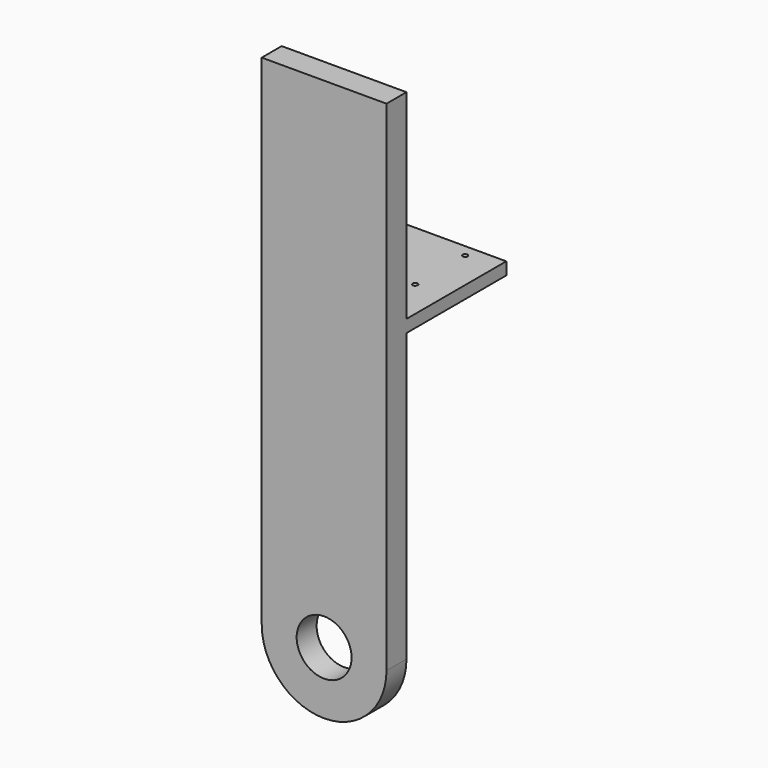
from build123d import *

# Parameters (mm, degrees)
F0_R     = 11
F0_W     = 50
F0_H     = 5
F0_H_2   = 80
F0_R_2   = 7.5
F0_R_3   = 4
F1_DEPTH = 10
F2_DEPTH = 50
F3_R     = 1
F4_DEPTH = 25
F5_DEPTH = 5
F6_DEPTH = 15


with BuildPart() as f1:
    # F0 (on Front) → F1 (new body)
    with BuildSketch(Plane.XZ):
        with BuildLine():
            Line((-25, 115), (-25, 0))
            ThreePointArc((-25, 0), (0, -25), (25, 0))
            Line((25, 0), (25, 115))
            Line((25, 115), (-25, 115))
        make_face()
        Circle(F0_R, mode=Mode.SUBTRACT)
        with Locations((0, 117.5)):
            Rectangle(F0_W, F0_H)
        with Locations((0, 160)):
            Rectangle(F0_W, F0_H_2)
        with Locations((0, 185)):
            Circle(F0_R_2, mode=Mode.SUBTRACT)
        with Locations((0, 185)):
            Circle(F0_R_2)
        with Locations((0, 185)):
            Circle(F0_R_3, mode=Mode.SUBTRACT)
        with Locations((0, 185)):
            Circle(F0_R_3)
    extrude(amount=F1_DEPTH)

    # F0 (on Front) → F2 (join)
    with BuildSketch(Plane.XZ):
        with Locations((0, 117.5)):
            Rectangle(F0_W, F0_H)
    extrude(amount=-F2_DEPTH)

    # F3 (on face) → F4 (cut)
    with BuildSketch(Plane.XY.offset(120)):
        with Locations((-12.5, 20)):
            Circle(F3_R)
        with Locations((-12.5, 45)):
            Circle(F3_R)
        with Locations((12.5, 45)):
            Circle(F3_R)
        with Locations((12.5, 20)):
            Circle(F3_R)
    extrude(amount=-F4_DEPTH, mode=Mode.SUBTRACT)

    # F0 (on Front) → F5 (join)
    with BuildSketch(Plane.XZ):
        with Locations((0, 185)):
            Circle(F0_R_2)
        with Locations((0, 185)):
            Circle(F0_R_3, mode=Mode.SUBTRACT)
    extrude(amount=-F5_DEPTH)

    # F0 (on Front) → F6 (join)
    with BuildSketch(Plane.XZ):
        with Locations((0, 185)):
            Circle(F0_R_3)
    extrude(amount=-F6_DEPTH)


solid = f1.part
